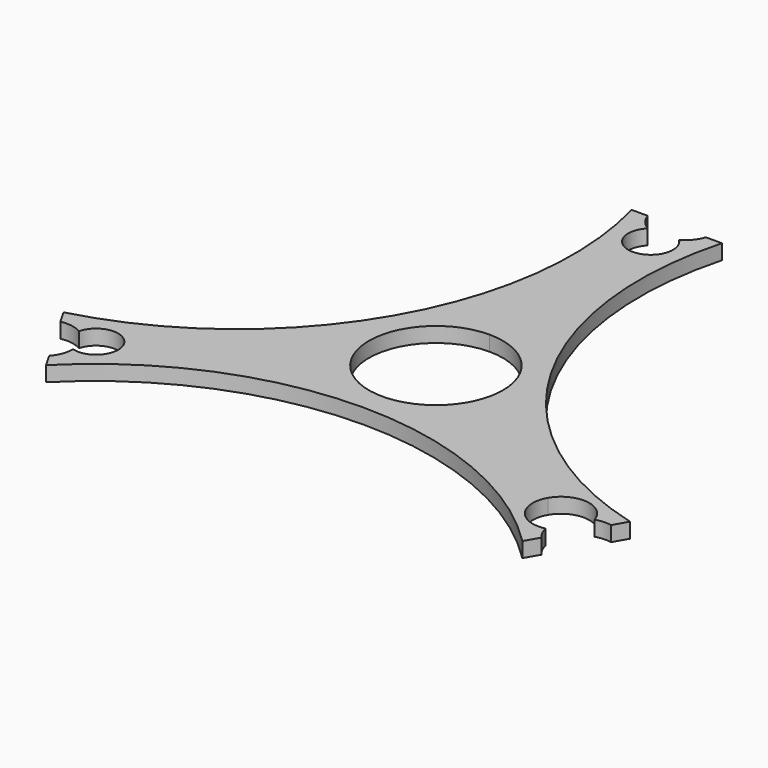
from build123d import *

# Parameters (mm, degrees)
F1_DEPTH = 2.54


with BuildPart() as f1:
    # F0 (on Top) → F1 (new body)
    with BuildSketch(Plane.XY):
        with BuildLine():
            ThreePointArc((-11.5484487595, -6.6675), (-11.5484487595, 6.6675), (0, 13.335))
            Line((0, 13.335), (0, 41.5238420934))
            ThreePointArc((0, 41.5238420934), (-3.4923003016, 43.8671250358), (-2.6478593482, 47.9870832663))
            ThreePointArc((-2.6478593482, 47.9870832663), (-4.0365508418, 49.1893730793), (-4.9196396151, 50.8))
            Line((-4.9196396151, 50.8), (-7.62, 50.8))
            ThreePointArc((-7.62, 50.8), (-13.2627477276, 7.6572509707), (-47.8040905122, -18.8008864232))
            Line((-47.8040905122, -18.8008864232), (-46.456170155, -21.1355529664))
            ThreePointArc((-46.456170155, -21.1355529664), (-44.598962502, -21.0983297604), (-42.8475396736, -21.7172998002))
            ThreePointArc((-42.8475396736, -21.7172998002), (-39.7349535137, -18.946869689), (-35.9932219183, -20.7806963635))
            Line((-35.9932219183, -20.7806963635), (-11.5484487595, -6.6675))
        make_face()
        with BuildLine():
            ThreePointArc((0, 13.335), (9.4292689271, 9.4292689271), (13.335, 0))
            ThreePointArc((13.335, 0), (12.8806208936, -3.4513519664), (11.5484487595, -6.6675))
            Line((11.5484487595, -6.6675), (35.1015943461, -20.2659149447))
            ThreePointArc((35.1015943461, -20.2659149447), (39.7899129003, -17.9160164205), (43.7992079136, -21.2965352321))
            ThreePointArc((43.7992079136, -21.2965352321), (45.116331258, -21.045134002), (46.4539103198, -21.1394671159))
            Line((46.4539103198, -21.1394671159), (47.8040905122, -18.8008864232))
            ThreePointArc((47.8040905122, -18.8008864232), (13.2627477276, 7.6572509707), (7.62, 50.8))
            Line((7.62, 50.8), (4.9241592856, 50.8))
            ThreePointArc((4.9241592856, 50.8), (4.0400398552, 49.1880973327), (2.6495579427, 47.9854097477))
            ThreePointArc((2.6495579427, 47.9854097477), (3.4815648437, 46.7545040826), (3.77400783, 45.2978499234))
            ThreePointArc((3.77400783, 45.2978499234), (2.6686265288, 42.6292233945), (0, 41.5238420934))
            Line((0, 41.5238420934), (0, 13.335))
        make_face()
        with BuildLine():
            ThreePointArc((-11.5484487595, -6.6675), (0, -13.335), (11.5484487595, -6.6675))
            Line((11.5484487595, -6.6675), (9.788685139, -5.6515))
            ThreePointArc((9.788685139, -5.6515), (0, -11.303), (-9.788685139, -5.6515))
            Line((-9.788685139, -5.6515), (-11.5484487595, -6.6675))
        make_face()
        with BuildLine():
            Line((35.1015943461, -20.2659149447), (11.5484487595, -6.6675))
            ThreePointArc((11.5484487595, -6.6675), (0, -13.335), (-11.5484487595, -6.6675))
            Line((-11.5484487595, -6.6675), (-35.9932219183, -20.7806963635))
            ThreePointArc((-35.9932219183, -20.7806963635), (-35.6199482657, -21.6818586781), (-35.4926315741, -22.6489249617))
            ThreePointArc((-35.4926315741, -22.6489249617), (-36.9699808664, -25.6250875678), (-40.2337772061, -26.2477738787))
            ThreePointArc((-40.2337772061, -26.2477738787), (-40.5740144012, -28.0722881249), (-41.5342707047, -29.6605328841))
            Line((-41.5342707047, -29.6605328841), (-40.1840905122, -31.9991135768))
            ThreePointArc((-40.1840905122, -31.9991135768), (0, -15.3145019414), (40.1840905122, -31.9991135768))
            Line((40.1840905122, -31.9991135768), (41.5320108695, -29.6644470336))
            ThreePointArc((41.5320108695, -29.6644470336), (40.7807919893, -28.5517697437), (40.3400163627, -27.2836619389))
            ThreePointArc((40.3400163627, -27.2836619389), (35.4097809691, -25.4998607522), (35.1015943461, -20.2659149447))
        make_face()
        with BuildLine():
            ThreePointArc((11.5484487595, -6.6675), (12.8806208936, -3.4513519664), (13.335, 0))
            ThreePointArc((13.335, 0), (9.4292689271, 9.4292689271), (0, 13.335))
            Line((0, 13.335), (0, 11.303))
            ThreePointArc((0, 11.303), (7.9924279478, 7.9924279478), (11.303, 0))
            ThreePointArc((11.303, 0), (10.9178596145, -2.9254316668), (9.788685139, -5.6515))
            Line((9.788685139, -5.6515), (11.5484487595, -6.6675))
        make_face()
        with BuildLine():
            Line((0, 11.303), (0, 13.335))
            ThreePointArc((0, 13.335), (-11.5484487595, 6.6675), (-11.5484487595, -6.6675))
            Line((-11.5484487595, -6.6675), (-9.788685139, -5.6515))
            ThreePointArc((-9.788685139, -5.6515), (-9.788685139, 5.6515), (0, 11.303))
        make_face()
    extrude(amount=F1_DEPTH)


solid = f1.part
